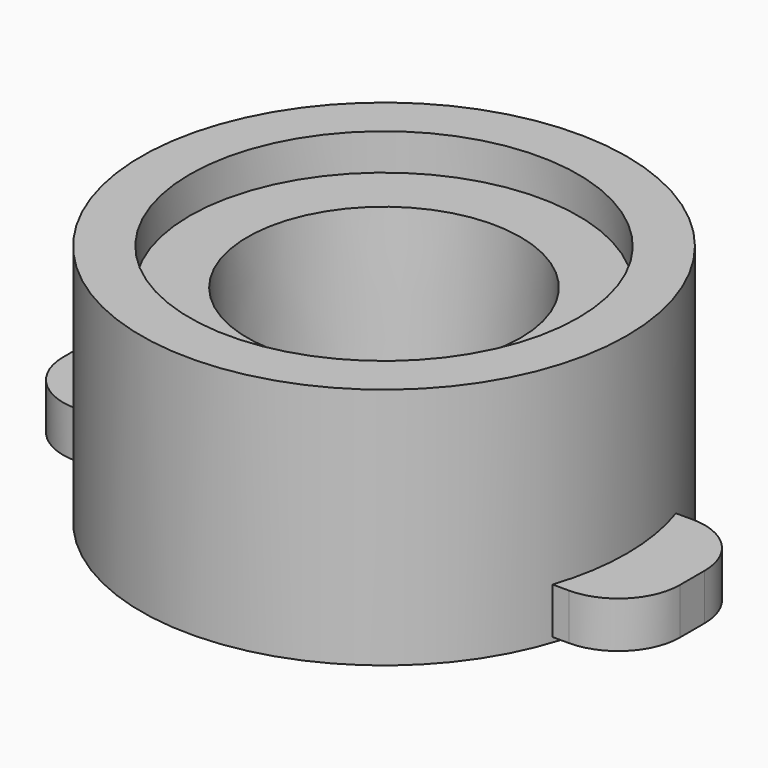
from build123d import *

# Parameters (mm, degrees)
F0_R     = 20
F1_DEPTH = 20
F2_R     = 16
F3_DEPTH = 3
F4_R     = 11.25
F5_DEPTH = 12.5
F5_TAPER = 3
F6_W     = 12.7
F6_H     = 3.81
F7_DEPTH = 25.4
F8_DEPTH = 25.4
F9_R     = 5.08


with BuildPart() as f1:
    # F0 (on Top) → F1 (new body)
    with BuildSketch(Plane.XY):
        Circle(F0_R)
    extrude(amount=-F1_DEPTH)

    # F2 (on face) → F3 (cut)
    with BuildSketch(Plane.XY):
        Circle(F2_R)
    extrude(amount=-F3_DEPTH, mode=Mode.SUBTRACT)

    # F4 (on face) → F5 (cut)
    with BuildSketch(Plane.XY.offset(-3)):
        Circle(F4_R)
    extrude(amount=-F5_DEPTH, taper=F5_TAPER, mode=Mode.SUBTRACT)

    # F6 (on Right) → F7 (join)
    with BuildSketch(Plane.YZ):
        with Locations((0, -17.6945884627)):
            Rectangle(F6_W, F6_H)
    extrude(amount=F7_DEPTH)

    # F6 (on Right) → F8 (join)
    with BuildSketch(Plane.YZ):
        with Locations((0, -17.6945884627)):
            Rectangle(F6_W, F6_H)
    extrude(amount=-F8_DEPTH)

    # F9
    f9_edges = [f1.edges().sort_by_distance(p)[0] for p in [
        (-25.4, 6.35, -17.694588),
        (-25.4, -6.35, -17.694588),
        (25.4, -6.35, -17.694588),
        (25.4, 6.35, -17.694588),
    ]]
    fillet(f9_edges, radius=F9_R)


solid = f1.part
